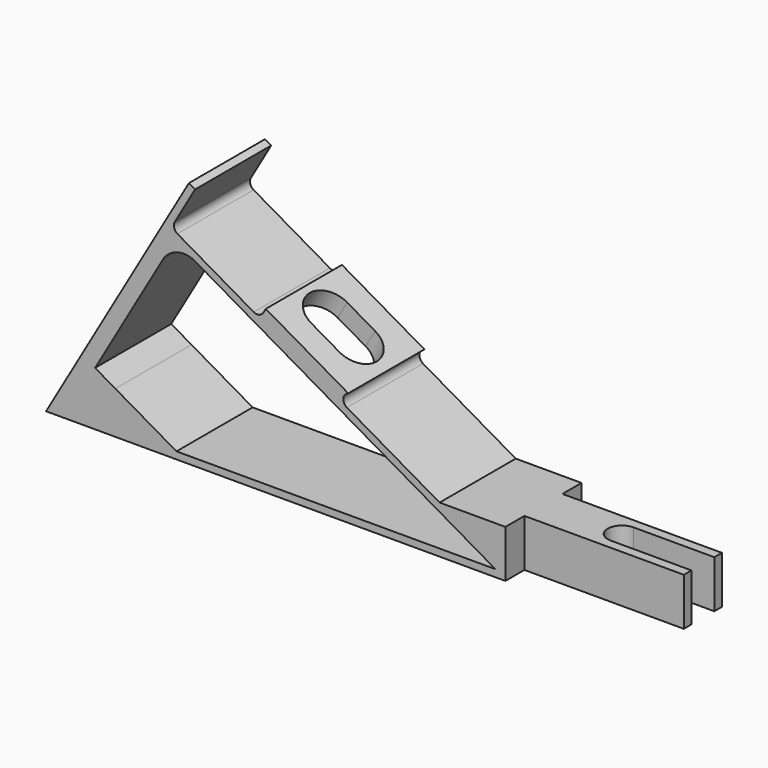
from build123d import *

# Parameters (mm, degrees)
F1_DEPTH = 20
F3_DEPTH = 4
F4_W     = 33.5
F4_H     = 5
F5_DEPTH = 10.001
F6_DEPTH = 10.001
F7_DEPTH = 10.001


with BuildPart() as f1:
    # F0 (on Front) → F1 (new body)
    with BuildSketch(Plane.XZ):
        with BuildLine():
            Line((30, 51.9615242271), (0, 0))
            Line((0, 0), (130, 0))
            Line((130, 0), (130, 10))
            Line((130, 10), (82.6794919243, 10))
            Line((82.6794919243, 10), (63.2073381993, 21.2422531948))
            ThreePointArc((63.2073381993, 21.2422531948), (62.4652978589, 22.6956144115), (63.4890923627, 23.9663336987))
            Line((63.4890923627, 23.9663336987), (46.168584287, 33.9663336987))
            Line((46.168584287, 33.9663336987), (45.668584287, 33.1003082949))
            ThreePointArc((45.668584287, 33.1003082949), (44.757774749, 32.4014195555), (43.6195461814, 32.5512701892))
            Line((43.6195461814, 32.5512701892), (27.5980762114, 41.8012701892))
            ThreePointArc((27.5980762114, 41.8012701892), (26.8991874719, 42.7120797272), (27.0490381057, 43.8503082949))
            Line((27.0490381057, 43.8503082949), (31.2990381057, 51.2115242271))
            Line((31.2990381057, 51.2115242271), (30, 51.9615242271))
        make_face()
        with BuildLine():
            ThreePointArc((24.5490381057, 36.0560796608), (27.5850698991, 38.3857087923), (31.3791651246, 37.8862066798))
            Line((31.3791651246, 37.8862066798), (94.4019237886, 1.5))
            Line((94.4019237886, 1.5), (27.4019237886, 1.5))
            Line((27.4019237886, 1.5), (14.5543888066, 8.9175277803))
            Line((14.5543888066, 8.9175277803), (10.2990381057, 11.374355653))
            Line((10.2990381057, 11.374355653), (24.5490381057, 36.0560796608))
        make_face(mode=Mode.SUBTRACT)
    extrude(amount=F1_DEPTH)

    # F2 (on face) → F3 (cut)
    with BuildSketch(Plane(origin=(26.25, 0, 45.4663336987), x_dir=(0.8660254038, 0, -0.5), z_dir=(0.5, 0, 0.8660254038))):
        with BuildLine():
            Line((35.949893862, -5.2802399732), (29.1481667175, -5.2802399732))
            ThreePointArc((29.1481667175, -5.2802399732), (24.4296125838, -10.1066845691), (29.3614813401, -14.7149370709))
            Line((29.3614813401, -14.7149370709), (35.7365792394, -14.7149370709))
            ThreePointArc((35.7365792394, -14.7149370709), (40.6684479957, -10.1066845691), (35.949893862, -5.2802399732))
        make_face()
    extrude(amount=-F3_DEPTH, mode=Mode.SUBTRACT)

    # F4 (on face) → F5 (cut, through all)
    with BuildSketch(Plane.XY.offset(10)):
        with Locations((113.25, -2.5)):
            Rectangle(F4_W, F4_H)
    extrude(amount=-F5_DEPTH, mode=Mode.SUBTRACT)

    # F4 (on face) → F6 (cut, through all)
    with BuildSketch(Plane.XY.offset(10)):
        with BuildLine():
            Line((130, -13), (130, -7))
            Line((130, -7), (113, -7))
            ThreePointArc((113, -7), (110, -10), (113, -13))
            Line((113, -13), (130, -13))
        make_face()
    extrude(amount=-F6_DEPTH, mode=Mode.SUBTRACT)

    # F4 (on face) → F7 (cut, through all)
    with BuildSketch(Plane.XY.offset(10)):
        with Locations((113.25, -17.5)):
            Rectangle(F4_W, F4_H)
    extrude(amount=-F7_DEPTH, mode=Mode.SUBTRACT)


solid = f1.part
